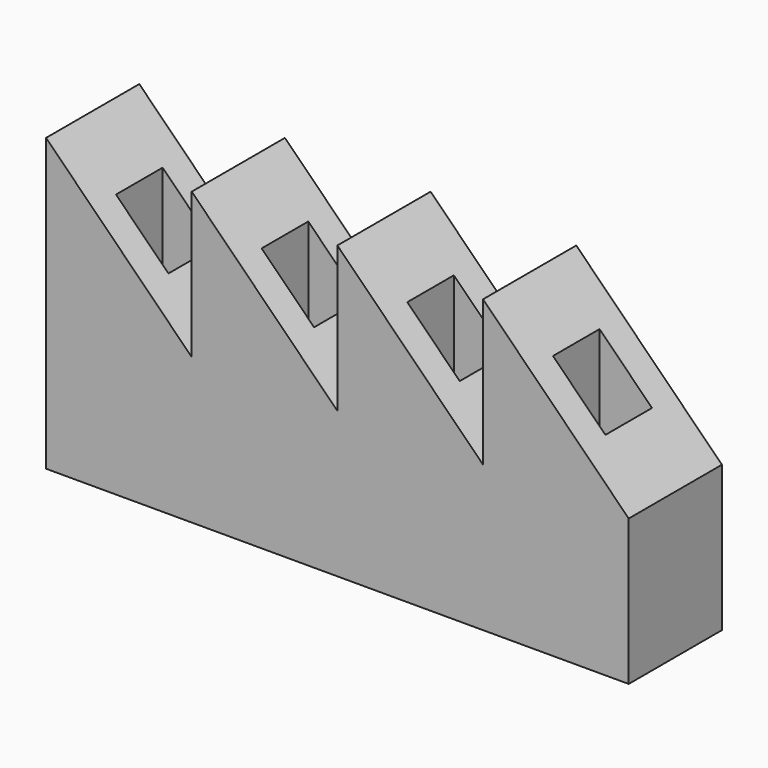
from build123d import *

# Parameters (mm, degrees)
F1_DEPTH      = 20
F3_DEPTH      = 5
F3_DEPTH_BACK = 5


with BuildPart() as f1:
    # F0 (on Front) → F1 (new body)
    with BuildSketch(Plane.XZ):
        Polygon((-58.466492, 25), (-58.466492, 0), (-58.466492, -25), (41.533508, -25), (41.533508, 0), (33.533508, 8), (33.533508, 0), (24.533508, 0), (24.533508, 17), (16.533508, 25), (16.533508, 0), (8.533508, 8), (8.533508, 0), (-0.466492, 0), (-0.466492, 17), (-8.466492, 25), (-8.466492, 0), (-16.466492, 8), (-16.466492, 0), (-25.466492, 0), (-25.466492, 17), (-33.466492, 25), (-33.466492, 0), (-41.466492, 8), (-41.466492, 0), (-50.466492, 0), (-50.466492, 17), align=None)
        Polygon((33.533508, 0), (33.533508, 8), (24.533508, 17), (24.533508, 0), align=None)
        Polygon((8.533508, 0), (8.533508, 8), (-0.466492, 17), (-0.466492, 0), align=None)
        Polygon((-16.466492, 8), (-25.466492, 17), (-25.466492, 0), (-16.466492, 0), align=None)
        Polygon((-41.466492, 8), (-50.466492, 17), (-50.466492, 0), (-41.466492, 0), align=None)
    extrude(amount=F1_DEPTH)


with BuildPart() as f1_1:
    # F2: moved
    add(f1.part.moved(Location((0, 10, 0))))

    # F0 (on Front) → F3 (cut, two sides)
    with BuildSketch(Plane.XZ) as f3_sk:
        Polygon((33.533508, 0), (33.533508, 8), (24.533508, 17), (24.533508, 0), align=None)
        Polygon((8.533508, 0), (8.533508, 8), (-0.466492, 17), (-0.466492, 0), align=None)
        Polygon((-16.466492, 8), (-25.466492, 17), (-25.466492, 0), (-16.466492, 0), align=None)
        Polygon((-41.466492, 8), (-50.466492, 17), (-50.466492, 0), (-41.466492, 0), align=None)
    extrude(amount=F3_DEPTH, mode=Mode.SUBTRACT)
    extrude(f3_sk.sketch, amount=-F3_DEPTH_BACK, mode=Mode.SUBTRACT)


solid = f1_1.part
